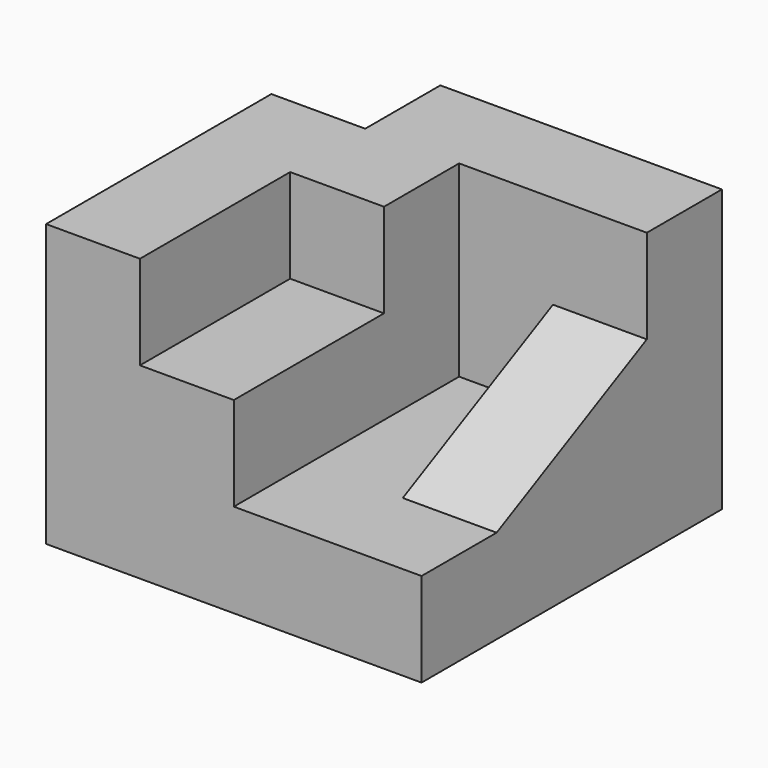
from build123d import *

# Parameters (mm, degrees)
F0_W     = 40
F0_H     = 40
F1_DEPTH = 30
F2_W     = 10
F2_H     = 10
F3_DEPTH = 40
F5_DEPTH = 20
F6_W     = 20
F6_H     = 10
F7_DEPTH = 10
F9_DEPTH = 30


with BuildPart() as f1:
    # F0 (on Top) → F1 (new body)
    with BuildSketch(Plane.XY):
        Rectangle(F0_W, F0_H)
    extrude(amount=F1_DEPTH)

    # F2 (on face) → F3 (cut)
    with BuildSketch(Plane.XY.offset(30)):
        with Locations((-15, 15)):
            Rectangle(F2_W, F2_H)
    extrude(amount=-F3_DEPTH, mode=Mode.SUBTRACT)

    # F4 (on face) → F5 (cut)
    with BuildSketch(Plane.YZ.offset(20)):
        Polygon((10, 30), (-20, 30), (-20, 10), (-10, 10), (10, 20), align=None)
    extrude(amount=-F5_DEPTH, mode=Mode.SUBTRACT)

    # F6 (on face) → F7 (cut)
    with BuildSketch(Plane.YZ):
        with Locations((-10, 25)):
            Rectangle(F6_W, F6_H)
    extrude(amount=-F7_DEPTH, mode=Mode.SUBTRACT)

    # F8 (on face) → F9 (cut)
    with BuildSketch(Plane.XZ.offset(20)):
        Polygon((10, 10), (10, 30), (0, 30), (0, 20), (0, 10), align=None)
    extrude(amount=-F9_DEPTH, mode=Mode.SUBTRACT)


solid = f1.part
